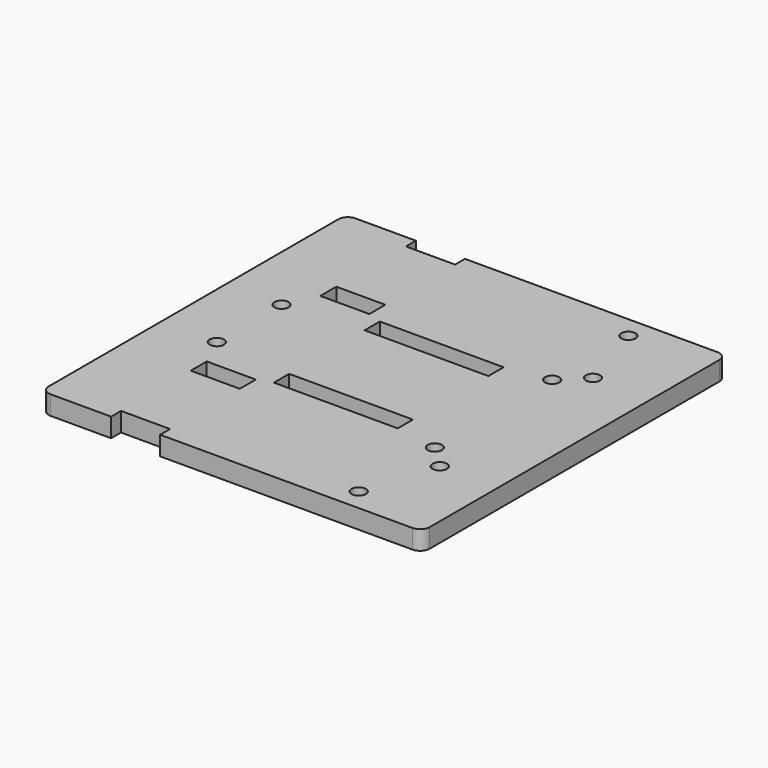
from build123d import *

# Parameters (mm, degrees)
F0_W     = 10.3
F0_H     = 4.2
F0_R     = 1.5
F0_W_2   = 26
F0_H_2   = 4
F1_DEPTH = 4


with BuildPart() as f1:
    # F0 (on Top) → F1 (new body)
    with BuildSketch(Plane.XY):
        with BuildLine():
            Line((-50, 38), (-50, 0))
            Line((-50, 0), (-50, -38))
            ThreePointArc((-50, -38), (-49.414214, -39.414214), (-48, -40))
            Line((-48, -40), (-35.3, -40))
            Line((-35.3, -40), (-35.3, -37.4))
            Line((-35.3, -37.4), (-25, -37.4))
            Line((-25, -37.4), (-25, -40))
            Line((-25, -40), (28, -40))
            ThreePointArc((28, -40), (29.414214, -39.414214), (30, -38))
            Line((30, -38), (30, 0))
            Line((30, 0), (30, 38))
            ThreePointArc((30, 38), (29.414214, 39.414214), (28, 40))
            Line((28, 40), (-25, 40))
            Line((-25, 40), (-25, 37.4))
            Line((-25, 37.4), (-35.3, 37.4))
            Line((-35.3, 37.4), (-35.3, 40))
            Line((-35.3, 40), (-48, 40))
            ThreePointArc((-48, 40), (-49.414214, 39.414214), (-50, 38))
        make_face()
        with Locations((-30.15, -17)):
            Rectangle(F0_W, F0_H, mode=Mode.SUBTRACT)
        with Locations((-38.3, -8.5)):
            Circle(F0_R, mode=Mode.SUBTRACT)
        with Locations((13, -35.391951)):
            Circle(F0_R, mode=Mode.SUBTRACT)
        with Locations((17.8, -20.1)):
            Circle(F0_R, mode=Mode.SUBTRACT)
        with Locations((-9, -11.9)):
            Rectangle(F0_W_2, F0_H_2, mode=Mode.SUBTRACT)
        with Locations((13, -15.391951)):
            Circle(F0_R, mode=Mode.SUBTRACT)
        with Locations((-38.3, 8.5)):
            Circle(F0_R, mode=Mode.SUBTRACT)
        with Locations((-30.15, 17)):
            Rectangle(F0_W, F0_H, mode=Mode.SUBTRACT)
        with Locations((-9, 11.9)):
            Rectangle(F0_W_2, F0_H_2, mode=Mode.SUBTRACT)
        with Locations((13, 15.391951)):
            Circle(F0_R, mode=Mode.SUBTRACT)
        with Locations((17.8, 20.1)):
            Circle(F0_R, mode=Mode.SUBTRACT)
        with Locations((13, 35.391951)):
            Circle(F0_R, mode=Mode.SUBTRACT)
    extrude(amount=F1_DEPTH)


solid = f1.part
